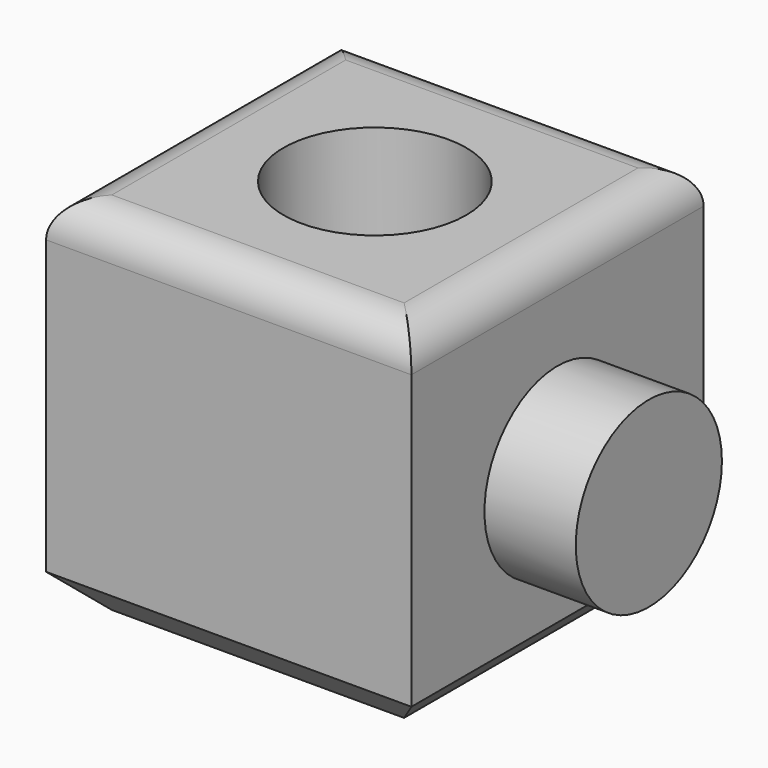
from build123d import *

# Parameters (mm, degrees)
F0_W     = 100
F0_H     = 100
F1_DEPTH = 100
F2_R     = 10
F3_SIZE  = 10
F4_R     = 25
F5_DEPTH = 100
F6_R     = 25
F7_DEPTH = 25


with BuildPart() as f1:
    # F0 (on Top) → F1 (new body)
    with BuildSketch(Plane.XY):
        Rectangle(F0_W, F0_H)
    extrude(amount=F1_DEPTH)

    # F2
    f2_edges = [f1.edges().sort_by_distance(p)[0] for p in [
        (-50, 0, 100),
        (0, -50, 100),
        (50, 0, 100),
        (0, 50, 100),
    ]]
    fillet(f2_edges, radius=F2_R)

    # F3
    f3_edges = [f1.edges().sort_by_distance(p)[0] for p in [
        (0, -50, 0),
        (50, 0, 0),
        (0, 50, 0),
        (-50, 0, 0),
    ]]
    chamfer(f3_edges, length=F3_SIZE)

    # F4 (on face) → F5 (cut)
    with BuildSketch(Plane.XY.offset(100)):
        Circle(F4_R)
    extrude(amount=-F5_DEPTH, mode=Mode.SUBTRACT)

    # F6 (on face) → F7 (join)
    with BuildSketch(Plane.YZ.offset(50)):
        with Locations((0, 46.822905)):
            Circle(F6_R)
    extrude(amount=F7_DEPTH)


solid = f1.part
